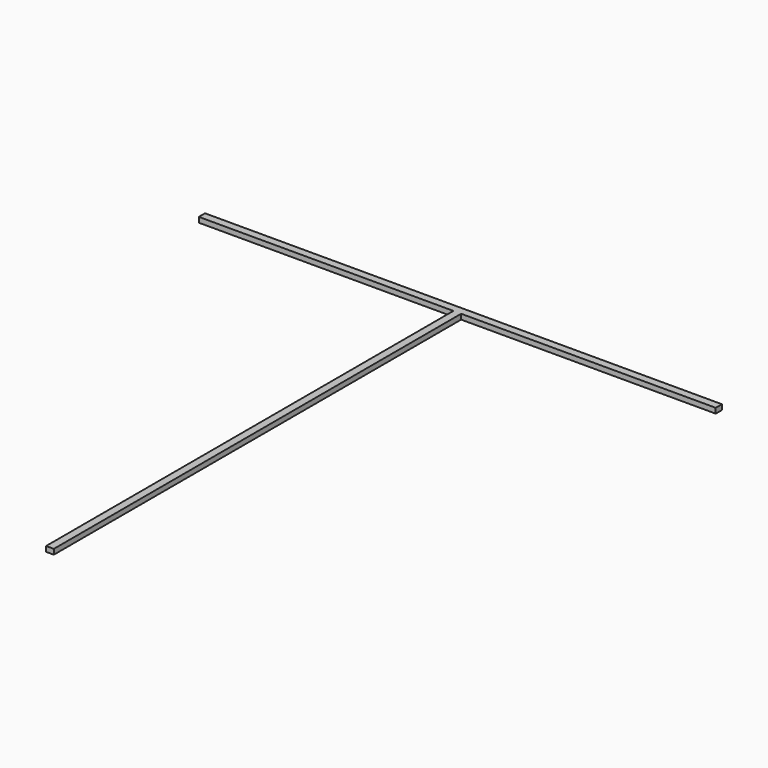
from build123d import *

# Parameters (mm, degrees)
F0_W     = 98.5
F0_H     = 3
F1_DEPTH = 2


with BuildPart() as f1:
    # F0 (on Top) → F1 (new body)
    with BuildSketch(Plane.XY):
        with Locations((-49.25, -1.5)):
            Rectangle(F0_W, F0_H)
        Polygon((3, 0), (0, 0), (0, -3), (0, -200), (3, -200), (3, -3), align=None)
        with Locations((52.25, -1.5)):
            Rectangle(F0_W, F0_H)
    extrude(amount=F1_DEPTH)


solid = f1.part
